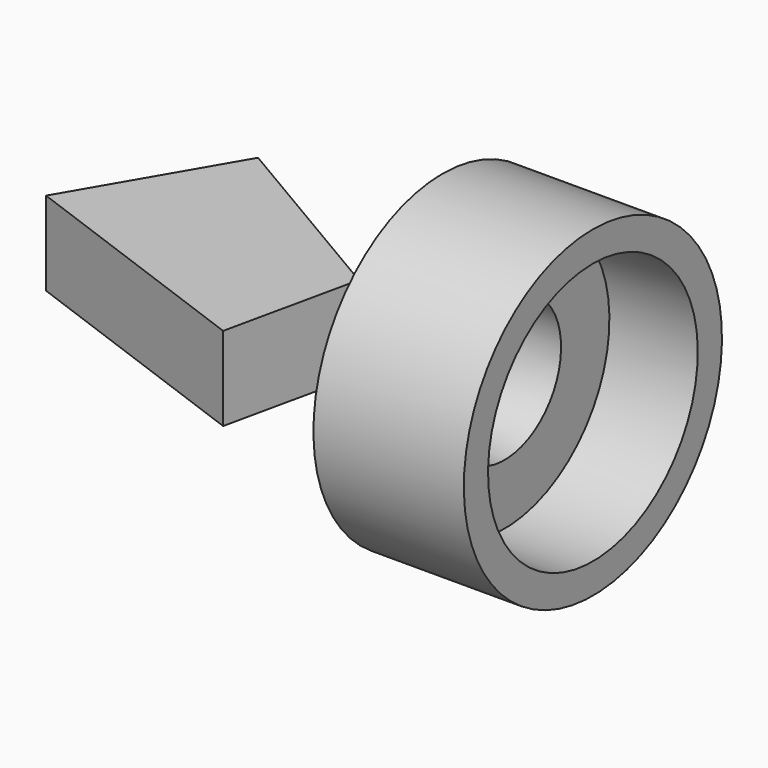
from build123d import *

# Parameters (mm, degrees)
F1_DEPTH = 25.4


with BuildPart() as f1:
    # F0 (on Top) → F1 (new body)
    with BuildSketch(Plane.XY):
        Polygon((-67.396291, 14.36167), (-94.447203, -32.148179), (-18.406587, -60.117286), (-9.579491, -19.715818), align=None)
    extrude(amount=F1_DEPTH)


with BuildPart() as f3:
    # F2 (on Front) → F3 (revolve)
    with BuildSketch(Plane.XZ):
        Polygon((0, 48.904791), (0, 20.902765), (18.80941, 21.412369), (18.80941, 39.740648), (45.59689, 39.740648), (45.59689, 48.904791), align=None)
    revolve(axis=Axis((19.755913, 0, 0), (1, 0, 0)))


solid = Compound([f1.part, f3.part])
